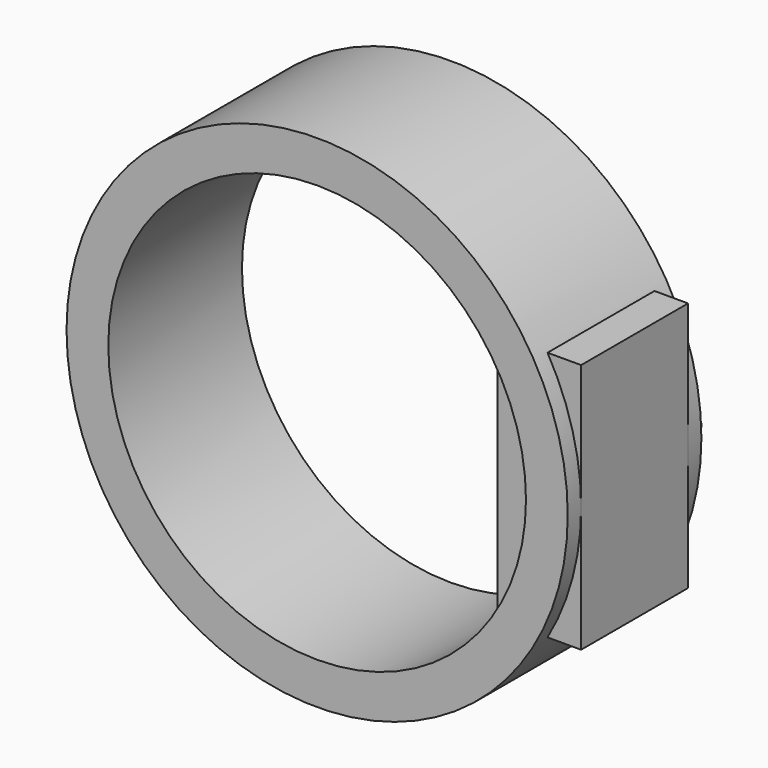
from build123d import *

# Parameters (mm, degrees)
F0_R     = 150
F1_DEPTH = 50
F2_R     = 125
F3_DEPTH = 100
F4_W     = 80
F4_H     = 150
F5_DEPTH = 150
F6_W     = 80
F6_H     = 150
F7_DEPTH = 100
F8_R     = 6.051989
F9_DEPTH = 10


with BuildPart() as f1:
    # F0 (on Front) → F1 (new body, symmetric)
    with BuildSketch(Plane.XZ):
        Circle(F0_R)
    extrude(amount=F1_DEPTH, both=True)

    # F2 (on face) → F3 (cut, through all)
    with BuildSketch(Plane.XZ.offset(50)):
        Circle(F2_R)
    extrude(amount=-F3_DEPTH, mode=Mode.SUBTRACT)

    # F4 (on Right) → F5 (join)
    with BuildSketch(Plane.YZ):
        Rectangle(F4_W, F4_H)
    extrude(amount=F5_DEPTH)

    # F6 (on face) → F7 (cut)
    with BuildSketch(Plane(origin=(0, 0, 0), x_dir=(0, -1, 0), z_dir=(-1, 0, 0))):
        Rectangle(F6_W, F6_H)
    extrude(amount=-F7_DEPTH, mode=Mode.SUBTRACT)

    # F8 (on face) → F9 (join)
    with BuildSketch(Plane(origin=(0, 50, 0), x_dir=(-1, 0, 0), z_dir=(0, 1, 0))):
        with Locations((-136, 0)):
            Circle(F8_R)
    extrude(amount=F9_DEPTH)


solid = f1.part
